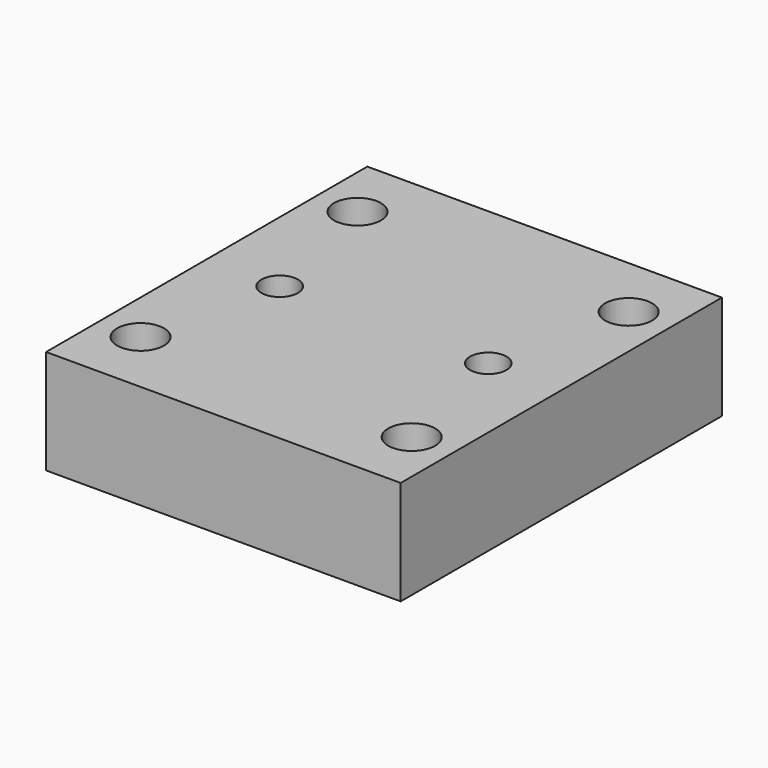
from build123d import *

# Parameters (mm, degrees)
F0_W           = 34
F0_H           = 38.5
F1_DEPTH       = 10
F3_D           = 4.5
F3_DEPTH       = 10
F3_TIP         = 1.3519363928
F5_D           = 3.5
F5_DEPTH       = 10
F5_CBORE_D     = 8.25
F5_CBORE_DEPTH = 4
F5_TIP         = 1.0515060833


with BuildPart() as f1:
    # F0 (on Top) → F1 (new body)
    with BuildSketch(Plane.XY):
        Rectangle(F0_W, F0_H)
    extrude(amount=F1_DEPTH)

    # F3
    with Locations(Plane(origin=(0, 0, 0), x_dir=(1, 0, 0), z_dir=(0, 0, -1))):
        with Locations((-13, 12.9276185408), (13, 12.9276185408), (-13, -13.0723814592), (13, -13.0723814592)):
            Hole(F3_D / 2, depth=F3_DEPTH)
            with Locations((0, 0, -(F3_DEPTH + F3_TIP / 2))):  # 118° drill point
                Cone(0, F3_D / 2, F3_TIP, mode=Mode.SUBTRACT)

    # F5
    with Locations(Plane(origin=(0, 0, 0), x_dir=(1, 0, 0), z_dir=(0, 0, -1))):
        with Locations((10, 0), (-10, 0)):
            CounterBoreHole(F5_D / 2, F5_CBORE_D / 2, F5_CBORE_DEPTH, depth=F5_DEPTH)
            with Locations((0, 0, -(F5_DEPTH + F5_TIP / 2))):  # 118° drill point
                Cone(0, F5_D / 2, F5_TIP, mode=Mode.SUBTRACT)


solid = f1.part
